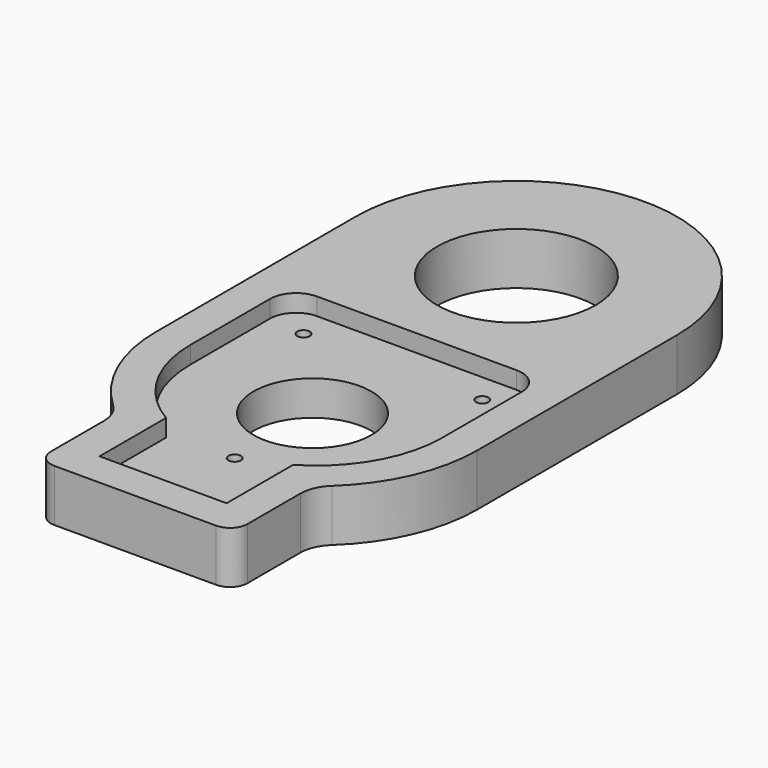
from build123d import *

# Parameters (mm, degrees)
F0_R     = 29.0195
F1_DEPTH = 19.05
F2_R     = 2.286
F2_R_2   = 29.0195
F2_R_3   = 21.59
F3_DEPTH = 12.7
F5_DEPTH = 3.175


with BuildPart() as f1:
    # F0 (on Top) → F1 (new body)
    with BuildSketch(Plane.XY):
        with BuildLine():
            Line((58.7375, 1.8415), (58.7375, 93.218))
            ThreePointArc((58.7375, 93.218), (0, 151.9555), (-58.7375, 93.218))
            Line((-58.7375, 93.218), (-58.7375, 1.8415))
            ThreePointArc((-58.7375, 1.8415), (-53.848048, -21.620845), (-39.993711, -41.177066))
            ThreePointArc((-39.993711, -41.177066), (-36.998179, -45.405437), (-35.941, -50.478377))
            Line((-35.941, -50.478377), (-35.941, -74.676))
            ThreePointArc((-35.941, -74.676), (-34.081128, -79.166128), (-29.591, -81.026))
            Line((-29.591, -81.026), (29.591, -81.026))
            ThreePointArc((29.591, -81.026), (34.081128, -79.166128), (35.941, -74.676))
            Line((35.941, -74.676), (35.941, -50.478377))
            ThreePointArc((35.941, -50.478377), (36.998179, -45.405437), (39.993711, -41.177066))
            ThreePointArc((39.993711, -41.177066), (53.848048, -21.620845), (58.7375, 1.8415))
        make_face()
        with BuildLine():
            ThreePointArc((-23.241, -37.899), (-39.933751, -21.065855), (-46.0375, 1.8415))
            Line((-46.0375, 1.8415), (-46.0375, 38.162218))
            ThreePointArc((-46.0375, 38.162218), (-43.247692, 44.89741), (-36.5125, 47.687218))
            Line((-36.5125, 47.687218), (36.5125, 47.687218))
            ThreePointArc((36.5125, 47.687218), (43.247692, 44.89741), (46.0375, 38.162218))
            Line((46.0375, 38.162218), (46.0375, 1.8415))
            ThreePointArc((46.0375, 1.8415), (39.933751, -21.065855), (23.241, -37.899))
            Line((23.241, -37.899), (23.241, -68.326))
            Line((23.241, -68.326), (-23.241, -68.326))
            Line((-23.241, -68.326), (-23.241, -37.899))
        make_face(mode=Mode.SUBTRACT)
        with Locations((0, 93.218)):
            Circle(F0_R, mode=Mode.SUBTRACT)
    extrude(amount=F1_DEPTH)

    # F2 (on face) → F3 (join)
    with BuildSketch(Plane(origin=(0, 0, 0), x_dir=(1, 0, 0), z_dir=(0, 0, -1))):
        with BuildLine():
            ThreePointArc((-58.7375, -93.218), (0, -151.9555), (58.7375, -93.218))
            Line((58.7375, -93.218), (58.7375, -1.8415))
            ThreePointArc((58.7375, -1.8415), (53.848048, 21.620845), (39.993711, 41.177066))
            ThreePointArc((39.993711, 41.177066), (36.998179, 45.405437), (35.941, 50.478377))
            Line((35.941, 50.478377), (35.941, 74.676))
            ThreePointArc((35.941, 74.676), (34.081128, 79.166128), (29.591, 81.026))
            Line((29.591, 81.026), (-29.591, 81.026))
            ThreePointArc((-29.591, 81.026), (-34.081128, 79.166128), (-35.941, 74.676))
            Line((-35.941, 74.676), (-35.941, 50.478377))
            ThreePointArc((-35.941, 50.478377), (-36.998179, 45.405437), (-39.993711, 41.177066))
            ThreePointArc((-39.993711, 41.177066), (-53.848048, 21.620845), (-58.7375, -1.8415))
            Line((-58.7375, -1.8415), (-58.7375, -93.218))
        make_face()
        with Locations((-32.7025, -36.765218)):
            Circle(F2_R, mode=Mode.SUBTRACT)
        with Locations((0, -93.218)):
            Circle(F2_R_2, mode=Mode.SUBTRACT)
        with Locations((32.7025, -36.765218)):
            Circle(F2_R, mode=Mode.SUBTRACT)
        Circle(F2_R_3, mode=Mode.SUBTRACT)
        with Locations((0, 35.56)):
            Circle(F2_R, mode=Mode.SUBTRACT)
    extrude(amount=-F3_DEPTH)

    # F4 (on face) → F5 (cut)
    with BuildSketch(Plane.XY):
        with BuildLine():
            ThreePointArc((-52.3875, 1.8415), (-48.026637, -19.084375), (-35.670066, -36.52641))
            ThreePointArc((-35.670066, -36.52641), (-31.176768, -42.868968), (-29.591, -50.478377))
            Line((-29.591, -50.478377), (-29.591, -74.676))
            Line((-29.591, -74.676), (29.591, -74.676))
            Line((29.591, -74.676), (29.591, -50.478377))
            ThreePointArc((29.591, -50.478377), (31.176768, -42.868968), (35.670066, -36.52641))
            ThreePointArc((35.670066, -36.52641), (48.026637, -19.084375), (52.3875, 1.8415))
            Line((52.3875, 1.8415), (52.3875, 93.218))
            ThreePointArc((52.3875, 93.218), (0, 145.6055), (-52.3875, 93.218))
            Line((-52.3875, 93.218), (-52.3875, 1.8415))
        make_face()
        with BuildLine():
            ThreePointArc((-33.508244, -34.201082), (-45.115932, -17.816141), (-49.2125, 1.8415))
            Line((-49.2125, 1.8415), (-49.2125, 93.218))
            ThreePointArc((-49.2125, 93.218), (0, 142.4305), (49.2125, 93.218))
            Line((49.2125, 93.218), (49.2125, 1.8415))
            ThreePointArc((49.2125, 1.8415), (45.115932, -17.816141), (33.508244, -34.201082))
            ThreePointArc((33.508244, -34.201082), (28.266063, -41.600733), (26.416, -50.478377))
            Line((26.416, -50.478377), (26.416, -71.501))
            Line((26.416, -71.501), (-26.416, -71.501))
            Line((-26.416, -71.501), (-26.416, -50.478377))
            ThreePointArc((-26.416, -50.478377), (-28.266063, -41.600733), (-33.508244, -34.201082))
        make_face(mode=Mode.SUBTRACT)
    extrude(amount=F5_DEPTH, mode=Mode.SUBTRACT)


solid = f1.part
